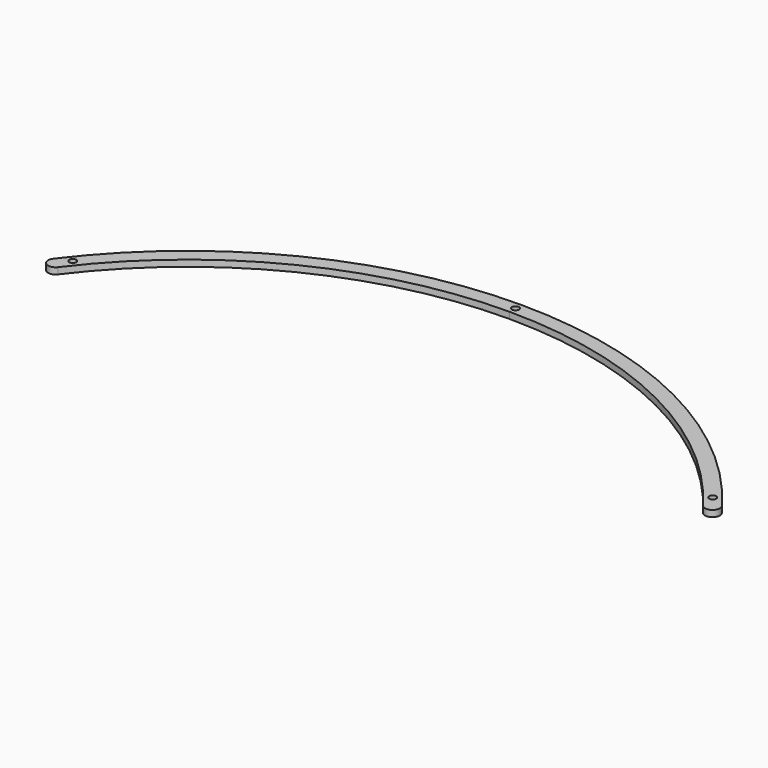
from build123d import *

# Parameters (mm, degrees)
PAD015_DEPTH                        = 3
SKETCH054_R                         = 1.65
POCKET018_DEPTH                     = 358.938883
POCKET018_DEPTH_BACK                = 361.938883
BODY001003005003004_PLACEMENT_ANGLE = 60
CLONE026_PLACEMENT_ANGLE            = 60


with BuildPart() as part:
    # Sketch053 → Pad015 (new body)
    with BuildSketch(Plane.XY):
        with BuildLine():
            ThreePointArc((152.005097, 113.785532), (84.992984, 169.790723), (0, 189.875477))
            Line((0, 189.875477), (0, 196.875477))
            ThreePointArc((157.608957, 117.98038), (88.126358, 176.050273), (0, 196.875477))
            ThreePointArc((152.005097, 113.785532), (156.904451, 113.081026), (157.608957, 117.98038))
        make_face()
    pad015 = extrude(amount=PAD015_DEPTH)

    # Sketch054 → Pocket018 (cut, two sides)
    with BuildSketch(Plane.XY) as pocket018_sk:
        with Locations((150.82443, 121.020933)):
            Circle(SKETCH054_R)
        with BuildLine():
            ThreePointArc((0, 191.725477), (1.65, 193.375477), (0, 195.025477))
            Line((0, 191.725477), (0, 195.025477))
        make_face()
    pocket018 = extrude(amount=-POCKET018_DEPTH, mode=Mode.SUBTRACT) + extrude(pocket018_sk.sketch, amount=POCKET018_DEPTH_BACK, mode=Mode.SUBTRACT)

    # Mirrored020: Pad015, Pocket018 across Sketch053 V_Axis
    add(pad015.mirror(Plane(origin=(0, 0, 0), x_dir=(0, 0, 1), z_dir=(1, 0, 0))))
    add(pocket018.mirror(Plane(origin=(0, 0, 0), x_dir=(0, 0, 1), z_dir=(1, 0, 0))), mode=Mode.SUBTRACT)


with BuildPart() as part_1:
    # Body001003005003004 placement: moved
    add(part.part.rotate(Axis((0, 0, 0), (0, 0, 1)), BODY001003005003004_PLACEMENT_ANGLE))


with BuildPart() as part_2:
    # Clone026 placement: moved
    add(part_1.part.moved(Location((0, -39, 0))).rotate(Axis((0, -39, 0), (0, 0, -1)), CLONE026_PLACEMENT_ANGLE))


solid = part_2.part
